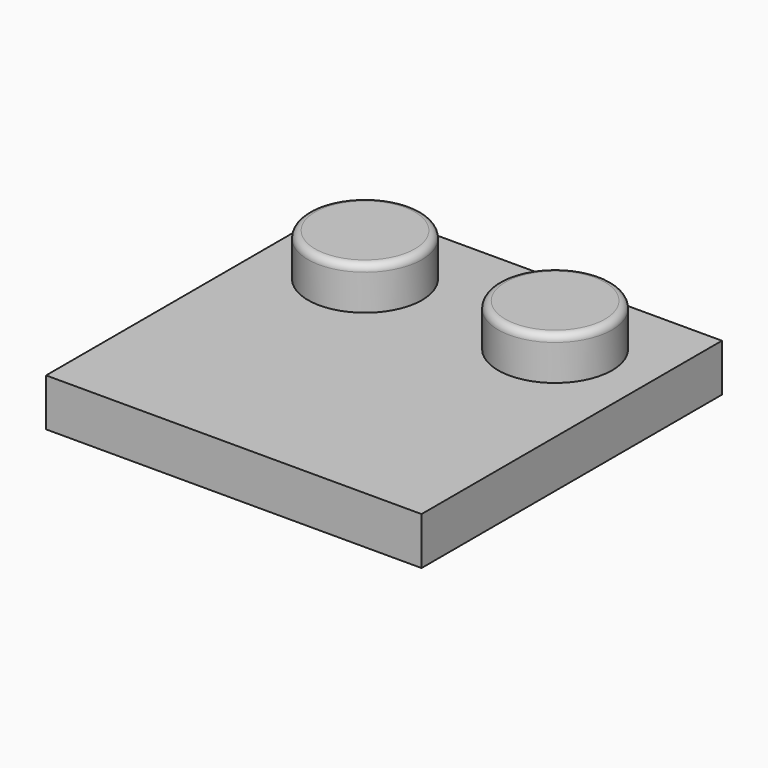
from build123d import *

# Parameters (mm, degrees)
F0_W     = 15.8
F0_H     = 15.8
F1_DEPTH = 2
F2_R     = 2.4
F3_DEPTH = 1.8
F4_R     = 0.3


with BuildPart() as f1:
    # F0 (on Top) → F1 (new body)
    with BuildSketch(Plane.XY):
        Rectangle(F0_W, F0_H)
    extrude(amount=F1_DEPTH)

    # F2 (on face) → F3 (join)
    with BuildSketch(Plane.XY.offset(2)):
        with Locations((-4, 4)):
            Circle(F2_R)
        with Locations((4, 4)):
            Circle(F2_R)
    extrude(amount=F3_DEPTH)

    # F4
    f4_edges = [f1.edges().sort_by_distance(p)[0] for p in [
        (1.6, 4, 3.8),
        (-6.4, 4, 3.8),
    ]]
    fillet(f4_edges, radius=F4_R)


solid = f1.part
